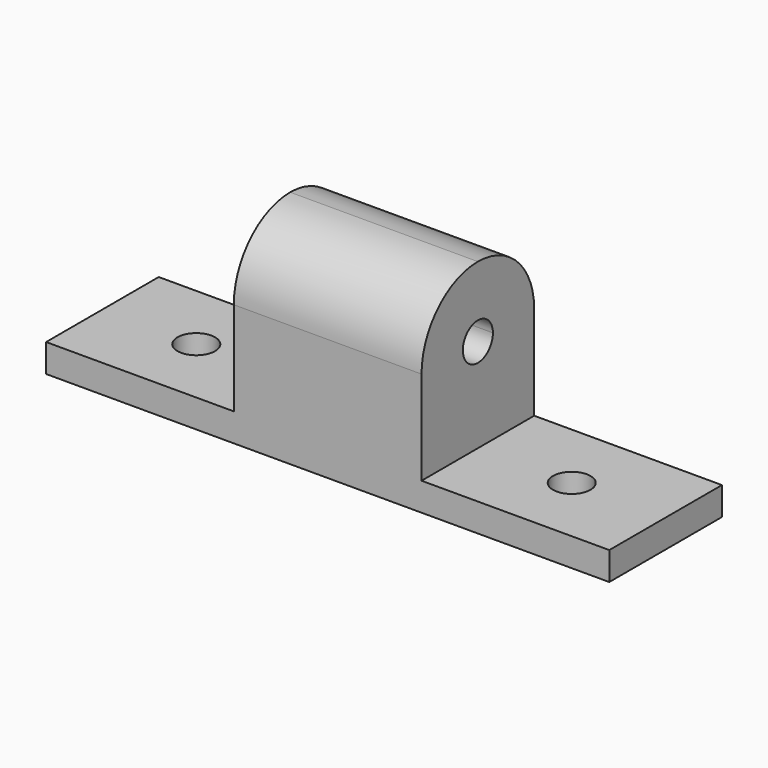
from build123d import *

# Parameters (mm, degrees)
F0_R     = 4
F1_DEPTH = 6
F3_DEPTH = 35
F5_DEPTH = 45


with BuildPart() as f1:
    # F0 (on Top) → F1 (new body)
    with BuildSketch(Plane.XY):
        Polygon((20, -15), (60, -15), (60, 15), (0, 15), (-20, 15), (-60, 15), (-60, -15), (0, -15), align=None)
        with Locations((-40, 0)):
            Circle(F0_R, mode=Mode.SUBTRACT)
        with Locations((40, 0)):
            Circle(F0_R, mode=Mode.SUBTRACT)
    extrude(amount=F1_DEPTH)

    # F2 (on face) → F3 (join)
    with BuildSketch(Plane.XY.offset(6)):
        Polygon((20, 15), (0, 15), (-20, 15), (-20, -15), (20, -15), align=None)
    extrude(amount=F3_DEPTH)

    # F4 (on face) → F5 (cut)
    with BuildSketch(Plane.YZ.offset(20)):
        with BuildLine():
            Line((15, 41), (0, 41))
            ThreePointArc((0, 41), (10.606602, 36.606602), (15, 26))
            Line((15, 26), (15, 41))
        make_face()
        with BuildLine():
            ThreePointArc((-15, 26), (-10.606602, 36.606602), (0, 41))
            Line((0, 41), (-15, 41))
            Line((-15, 41), (-15, 26))
        make_face()
        with BuildLine():
            ThreePointArc((4, 26), (2.828427, 28.828427), (0, 30))
            ThreePointArc((0, 30), (-2.828427, 23.171573), (4, 26))
        make_face()
    extrude(amount=-F5_DEPTH, mode=Mode.SUBTRACT)


solid = f1.part
